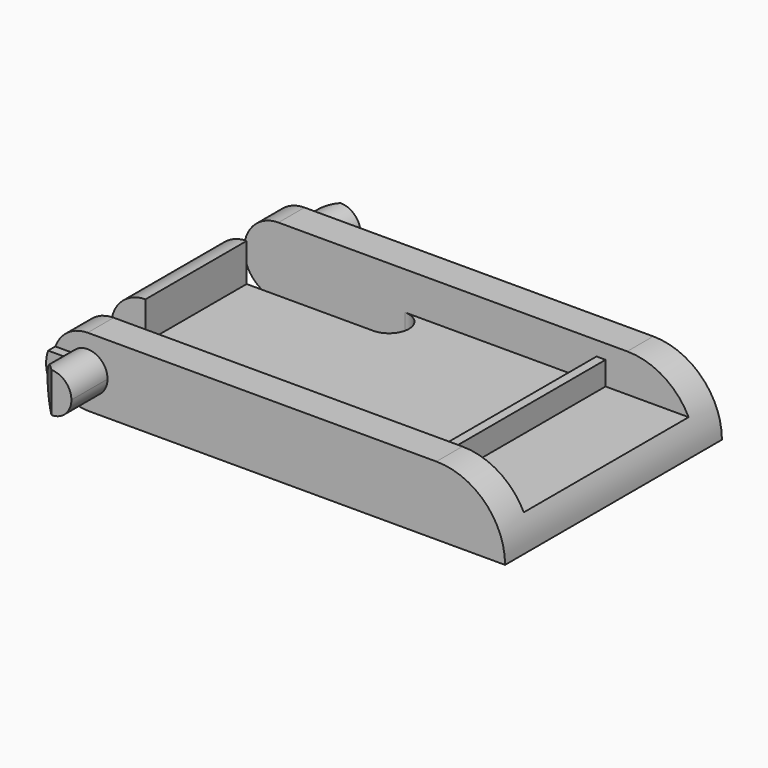
from build123d import *

# Parameters (mm, degrees)
F1_DEPTH = 7.5
F2_DEPTH = 10
F3_DEPTH = 8
F4_W     = 1.9
F4_H     = 2.2
F5_DEPTH = 3.801
F6_START = 1.7
F4_W_2   = 5
F4_H_2   = 11.4
F6_DEPTH = 2.101
F7_START = 3
F4_W_3   = 0.5
F7_DEPTH = 0.8
F8_DEPTH = 25


with BuildPart() as f1:
    # F0 (on Front) → F1 (new body, symmetric)
    with BuildSketch(Plane.XZ):
        with BuildLine():
            ThreePointArc((1.9, 1.9), (1.3435028843, 0.5564971157), (0, 0))
            Line((0, 0), (23.1, 0))
            ThreePointArc((23.1, 0), (21.9870057685, 2.6870057685), (19.3, 3.8))
            Line((19.3, 3.8), (0, 3.8))
            ThreePointArc((0, 3.8), (1.3435028843, 3.2435028843), (1.9, 1.9))
        make_face()
        with BuildLine():
            ThreePointArc((-1.7853571071, 1.25), (-1.0897247359, 0.3435617584), (0, 0))
            ThreePointArc((0, 0), (1.3435028843, 0.5564971157), (1.9, 1.9))
            ThreePointArc((1.9, 1.9), (1.3435028843, 3.2435028843), (0, 3.8))
            ThreePointArc((0, 3.8), (-1.0897247359, 3.4564382416), (-1.7853571071, 2.55))
            Line((-1.7853571071, 2.55), (-0.8874119675, 2.55))
            ThreePointArc((-0.8874119675, 2.55), (0.3419406643, 2.9455030283), (1.1, 1.9))
            ThreePointArc((1.1, 1.9), (0.3419406643, 0.8544969717), (-0.8874119675, 1.25))
            Line((-0.8874119675, 1.25), (-1.7853571071, 1.25))
        make_face()
        with BuildLine():
            ThreePointArc((-1.7853571071, 2.55), (-1.9, 1.9), (-1.7853571071, 1.25))
            Line((-1.7853571071, 1.25), (-0.8874119675, 1.25))
            ThreePointArc((-0.8874119675, 1.25), (-1.1, 1.9), (-0.8874119675, 2.55))
            Line((-0.8874119675, 2.55), (-1.7853571071, 2.55))
        make_face()
    extrude(amount=F1_DEPTH, both=True)

    # F0 (on Front) → F2 (join, symmetric)
    with BuildSketch(Plane.XZ):
        with BuildLine():
            ThreePointArc((-0.8874119675, 2.55), (-1.1, 1.9), (-0.8874119675, 1.25))
            ThreePointArc((-0.8874119675, 1.25), (0.3419406643, 0.8544969717), (1.1, 1.9))
            ThreePointArc((1.1, 1.9), (0.3419406643, 2.9455030283), (-0.8874119675, 2.55))
        make_face()
    extrude(amount=F2_DEPTH, both=True)

    # F0 (on Front) → F3 (join, symmetric)
    with BuildSketch(Plane.XZ):
        with BuildLine():
            ThreePointArc((-1.7853571071, 2.55), (-1.9, 1.9), (-1.7853571071, 1.25))
            Line((-1.7853571071, 1.25), (-0.8874119675, 1.25))
            ThreePointArc((-0.8874119675, 1.25), (-1.1, 1.9), (-0.8874119675, 2.55))
            Line((-0.8874119675, 2.55), (-1.7853571071, 2.55))
        make_face()
    extrude(amount=F3_DEPTH, both=True)

    # F4 (on Top) → F5 (cut, through all)
    with BuildSketch(Plane.XY):
        with Locations((-0.95, 4.6)):
            Rectangle(F4_W, F4_H)
        with BuildLine():
            Line((0, 5.7), (0, 3.5))
            Line((0, 3.5), (7, 3.5))
            ThreePointArc((7, 3.5), (8.1, 4.6), (7, 5.7))
            Line((7, 5.7), (0, 5.7))
        make_face()
        with Locations((-0.95, -4.6)):
            Rectangle(F4_W, F4_H)
        with BuildLine():
            Line((0, -3.5), (0, -5.7))
            Line((0, -5.7), (7, -5.7))
            ThreePointArc((7, -5.7), (8.1, -4.6), (7, -3.5))
            Line((7, -3.5), (0, -3.5))
        make_face()
    extrude(amount=F5_DEPTH, mode=Mode.SUBTRACT)

    # F4 (on Top) → F6 (cut)
    with BuildSketch(Plane.XY.offset(F6_START)):
        with BuildLine():
            ThreePointArc((7, -3.5), (8.1, -4.6), (7, -5.7))
            Line((7, -5.7), (17.6, -5.7))
            Line((17.6, -5.7), (17.6, 5.7))
            Line((17.6, 5.7), (7, 5.7))
            ThreePointArc((7, 5.7), (8.1, 4.6), (7, 3.5))
            Line((7, 3.5), (0, 3.5))
            Line((0, 3.5), (0, -3.5))
            Line((0, -3.5), (7, -3.5))
        make_face()
        with Locations((20.6, 0)):
            Rectangle(F4_W_2, F4_H_2)
    extrude(amount=F6_DEPTH, mode=Mode.SUBTRACT)

    # F4 (on Top) → F7 (cut)
    with BuildSketch(Plane.XY.offset(F7_START)):
        with Locations((17.85, 0)):
            Rectangle(F4_W_3, F4_H_2)
    extrude(amount=F7_DEPTH, mode=Mode.SUBTRACT)

    # F4 (on Top) → F8 (cut)
    with BuildSketch(Plane.XY):
        Polygon((-1.1, 8.9), (0, 10), (-1.1, 10), align=None)
        Polygon((0, -10), (-1.1, -8.9), (-1.1, -10), align=None)
    extrude(amount=F8_DEPTH, mode=Mode.SUBTRACT)


solid = f1.part
